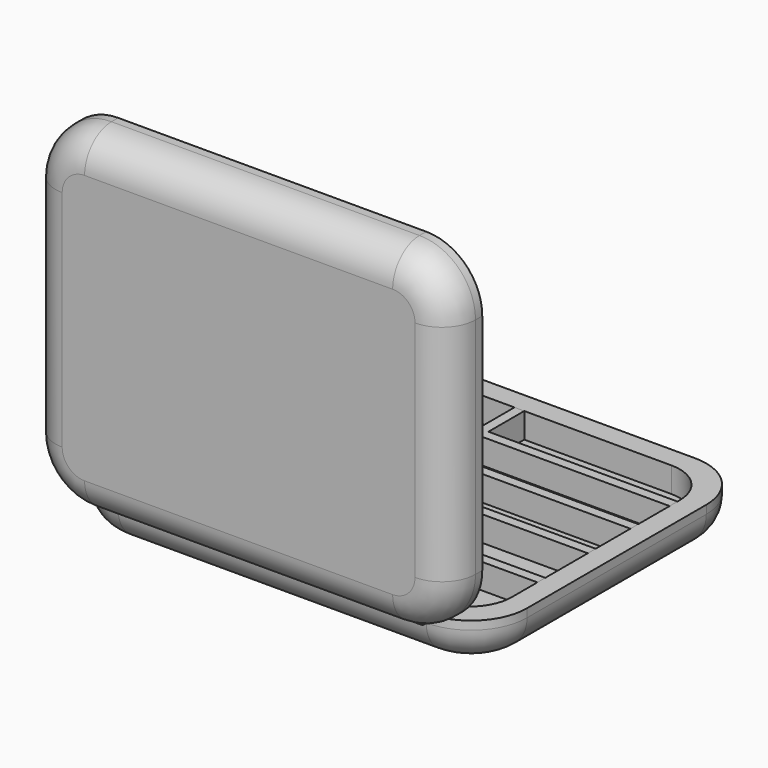
from build123d import *

# Parameters (mm, degrees)
F1_DEPTH  = 38.1
F2_R      = 30.48
F4_DEPTH  = 38.1
F5_R      = 30.48
F7_DEPTH  = 139.7
F8_DEPTH  = 139.7
F10_DEPTH = 22.86
F13_DEPTH = 22.86
F14_W     = 171.45
F14_H     = 8.89
F15_DEPTH = 22.86


with BuildPart() as f1:
    # F0 (on Top) → F1 (new body)
    with BuildSketch(Plane.XY):
        with BuildLine():
            Line((-139.7, -152.4), (139.7, -152.4))
            ThreePointArc((139.7, -152.4), (175.621024, -137.521024), (190.5, -101.6))
            Line((190.5, -101.6), (190.5, 101.6))
            ThreePointArc((190.5, 101.6), (175.621024, 137.521024), (139.7, 152.4))
            Line((139.7, 152.4), (-139.7, 152.4))
            ThreePointArc((-139.7, 152.4), (-175.621024, 137.521024), (-190.5, 101.6))
            Line((-190.5, 101.6), (-190.5, -101.6))
            ThreePointArc((-190.5, -101.6), (-175.621024, -137.521024), (-139.7, -152.4))
        make_face()
    extrude(amount=F1_DEPTH)

    # F2
    f2_edges = [f1.edges().sort_by_distance(p)[0] for p in [
        (0, -152.4, 0),
    ]]
    fillet(f2_edges, radius=F2_R)

    # F12 (on face) → F13 (cut)
    with BuildSketch(Plane.XY.offset(38.1)):
        with BuildLine():
            ThreePointArc((-133.35, 133.35), (-160.290768, 122.190768), (-171.45, 95.25))
            Line((-171.45, 95.25), (-171.45, 0))
            Line((-171.45, 0), (-171.45, -95.25))
            ThreePointArc((-171.45, -95.25), (-160.290768, -122.190768), (-133.35, -133.35))
            Line((-133.35, -133.35), (0, -133.35))
            Line((0, -133.35), (133.35, -133.35))
            ThreePointArc((133.35, -133.35), (160.290768, -122.190768), (171.45, -95.25))
            Line((171.45, -95.25), (171.45, 0))
            Line((171.45, 0), (171.45, 95.25))
            ThreePointArc((171.45, 95.25), (160.290768, 122.190768), (133.35, 133.35))
            Line((133.35, 133.35), (0, 133.35))
            Line((0, 133.35), (-133.35, 133.35))
        make_face()
    extrude(amount=-F13_DEPTH, mode=Mode.SUBTRACT)


with BuildPart() as f4:
    # F3 (on face) → F4 (new body)
    with BuildSketch(Plane.XZ.offset(152.4)):
        with BuildLine():
            Line((139.7, 342.9), (-139.7, 342.9))
            ThreePointArc((-139.7, 342.9), (-175.621024, 328.021024), (-190.5, 292.1))
            Line((-190.5, 292.1), (-190.5, 88.9))
            ThreePointArc((-190.5, 88.9), (-175.621024, 52.978976), (-139.7, 38.1))
            Line((-139.7, 38.1), (139.7, 38.1))
            ThreePointArc((139.7, 38.1), (175.621024, 52.978976), (190.5, 88.9))
            Line((190.5, 88.9), (190.5, 292.1))
            ThreePointArc((190.5, 292.1), (175.621024, 328.021024), (139.7, 342.9))
        make_face()
    extrude(amount=F4_DEPTH)

    # F5
    f5_edges = [f4.edges().sort_by_distance(p)[0] for p in [
        (-190.5, -190.5, 190.5),
    ]]
    fillet(f5_edges, radius=F5_R)

    # F9 (on face) → F10 (cut)
    with BuildSketch(Plane(origin=(0, -152.4, 0), x_dir=(-1, 0, 0), z_dir=(0, 1, 0))):
        with BuildLine():
            Line((-133.35, 57.15), (133.35, 57.15))
            ThreePointArc((133.35, 57.15), (160.290768, 68.309232), (171.45, 95.25))
            Line((171.45, 95.25), (171.45, 285.75))
            ThreePointArc((171.45, 285.75), (160.290768, 312.690768), (133.35, 323.85))
            Line((133.35, 323.85), (-133.35, 323.85))
            ThreePointArc((-133.35, 323.85), (-160.290768, 312.690768), (-171.45, 285.75))
            Line((-171.45, 285.75), (-171.45, 95.25))
            ThreePointArc((-171.45, 95.25), (-160.290768, 68.309232), (-133.35, 57.15))
        make_face()
    extrude(amount=-F10_DEPTH, mode=Mode.SUBTRACT)


with BuildPart() as f7:
    # F6 (on Right) → F7 (new body)
    with BuildSketch(Plane.YZ):
        with BuildLine():
            Line((-152.4, 38.1), (-160.02, 38.1))
            ThreePointArc((-160.02, 38.1), (-158.635324, 31.864676), (-152.4, 30.48))
            Line((-152.4, 30.48), (-152.4, 38.1))
        make_face()
    extrude(amount=F7_DEPTH)


with BuildPart() as f8:
    # F7_face (on face) → F8 (new body)
    with BuildSketch(Plane(origin=(0, -156.023531, 34.476469), x_dir=(0, 1, 0), z_dir=(-1, 0, 0))):
        with BuildLine():
            Line((3.623531, -3.623531), (3.623531, 3.996469))
            ThreePointArc((3.623531, 3.996469), (-2.611793, 2.611793), (-3.996469, -3.623531))
            Line((-3.996469, -3.623531), (3.623531, -3.623531))
        make_face()
    extrude(amount=F8_DEPTH)


with BuildPart() as f15:
    # F14 (on face) → F15 (new body)
    with BuildSketch(Plane.XY.offset(38.1)):
        Polygon((0, -8.89), (0, 0), (0, 39.37), (0, 48.26), (0, 83.82), (0, 92.71), (0, 133.35), (-8.89, 133.35), (-8.89, -133.35), (0, -133.35), (0, -66.04), (0, -57.15), align=None)
        with Locations((85.725, -4.445)):
            Rectangle(F14_W, F14_H)
        with Locations((85.725, 43.815)):
            Rectangle(F14_W, F14_H)
        with Locations((85.725, -61.595)):
            Rectangle(F14_W, F14_H)
        with Locations((85.725, 88.265)):
            Rectangle(F14_W, F14_H)
    extrude(amount=-F15_DEPTH)


solid = Compound([f1.part, f4.part, f7.part, f8.part, f15.part])
